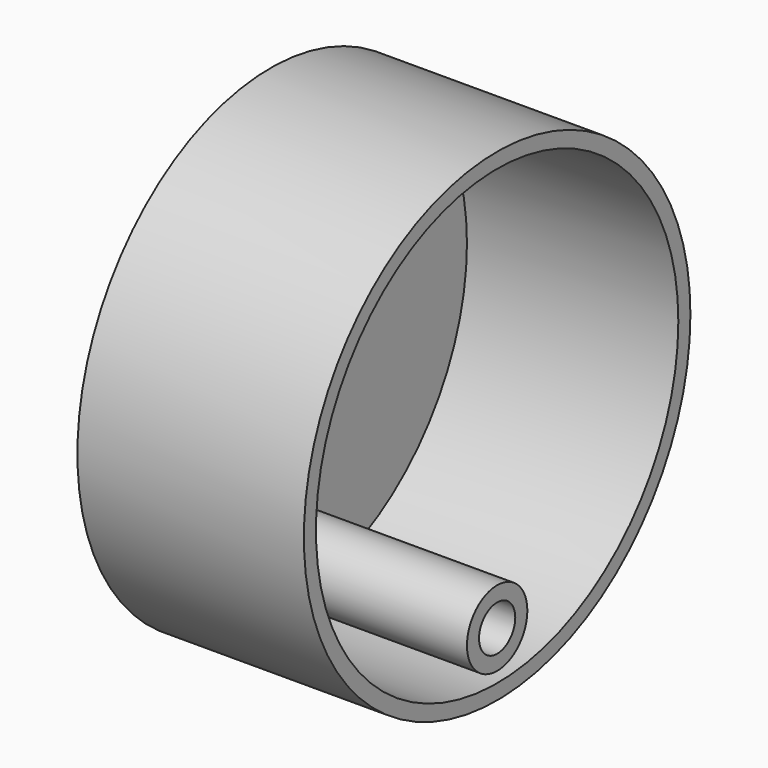
from build123d import *

# Parameters (mm, degrees)
F0_R     = 40.64
F0_R_2   = 3.81
F1_DEPTH = 38.1
F2_T     = -2.54


with BuildPart() as f1:
    # F0 (on Right) → F1 (new body)
    with BuildSketch(Plane.YZ):
        Circle(F0_R)
        with Locations((0, -29.927611)):
            Circle(F0_R_2, mode=Mode.SUBTRACT)
    extrude(amount=-F1_DEPTH)

    # F2
    f2_openings = [f1.faces().sort_by_distance(p)[0] for p in [
        (0, 0, 0.265368),
    ]]
    offset(amount=F2_T, openings=f2_openings)


solid = f1.part
